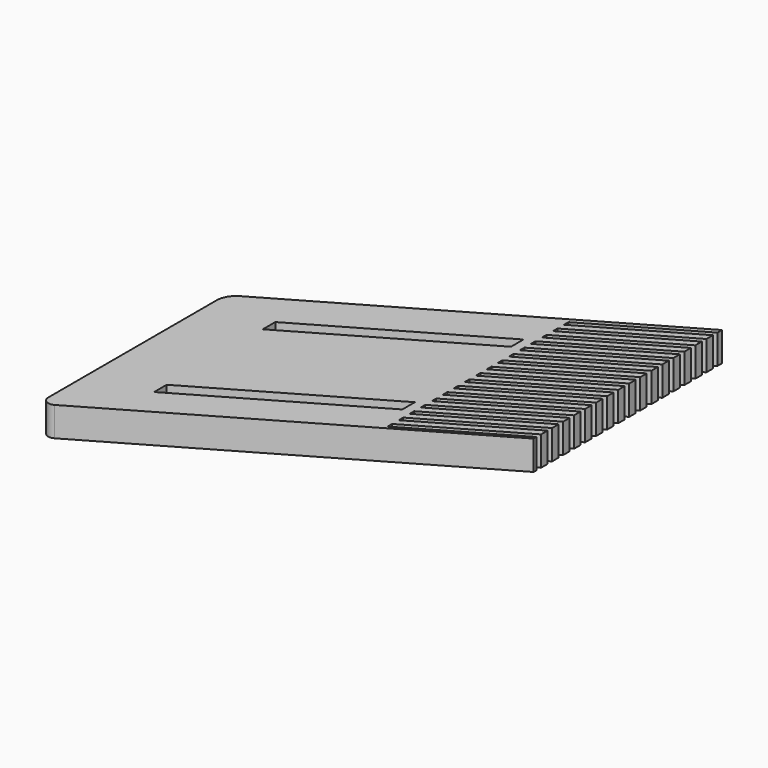
from build123d import *

# Parameters (mm, degrees)
F2_DEPTH = 19.05
F3_DEPTH = 25.4
F5_DEPTH = 25.4
F6_R     = 12.7
F7_R     = 5.08


with BuildPart() as f2:
    # F0 (on Top) → F2 (new body)
    with BuildSketch(Plane.XY):
        Polygon((219.970453, 127), (0, 0), (0, -152.4), (219.970453, -25.4), align=None)
    extrude(amount=F2_DEPTH)

    # F1 (on face) → F3 (cut)
    with BuildSketch(Plane.XY):
        Polygon((148.085226, 56.167652), (38.1, -7.332348), (38.1, -17.492348), (148.085226, 46.007652), align=None)
        Polygon((38.1, -105.480529), (148.085226, -41.980529), (148.085226, -31.820529), (38.1, -95.320529), align=None)
    extrude(amount=F3_DEPTH, mode=Mode.SUBTRACT)

    # F4 (on face) → F5 (cut)
    with BuildSketch(Plane.XY.offset(19.05)):
        Polygon((219.970453, 119.667652), (219.970453, 123.333826), (153.979317, 85.233826), (153.979317, 81.567652), align=None)
        Polygon((219.970453, 114.407963), (153.979317, 76.307963), (153.979317, 72.641788), (219.970453, 110.741788), align=None)
        Polygon((219.970453, 105.4821), (153.979317, 67.3821), (153.979317, 63.715925), (219.970453, 101.815925), align=None)
        Polygon((219.970453, 96.556236), (153.979317, 58.456236), (153.979317, 54.790062), (219.970453, 92.890062), align=None)
        Polygon((219.970453, 87.630373), (153.979317, 49.530373), (153.979317, 45.864199), (219.970453, 83.964199), align=None)
        Polygon((219.970453, 78.70451), (153.979317, 40.60451), (153.979317, 36.938336), (219.970453, 75.038336), align=None)
        Polygon((219.970453, 69.778647), (153.979317, 31.678647), (153.979317, 28.012473), (219.970453, 66.112473), align=None)
        Polygon((219.970453, 60.852784), (153.979317, 22.752784), (153.979317, 19.08661), (219.970453, 57.18661), align=None)
        Polygon((219.970453, 51.926921), (153.979317, 13.826921), (153.979317, 10.160747), (219.970453, 48.260747), align=None)
        Polygon((219.970453, 43.001058), (153.979317, 4.901058), (153.979317, 1.234883), (219.970453, 39.334883), align=None)
        Polygon((219.970453, 34.075195), (153.979317, -4.024805), (153.979317, -7.69098), (219.970453, 30.40902), align=None)
        Polygon((219.970453, 25.149331), (153.979317, -12.950669), (153.979317, -16.616843), (219.970453, 21.483157), align=None)
        Polygon((219.970453, 16.223468), (153.979317, -21.876532), (153.979317, -25.542706), (219.970453, 12.557294), align=None)
        Polygon((219.970453, 7.297605), (153.979317, -30.802395), (153.979317, -34.468569), (219.970453, 3.631431), align=None)
        Polygon((219.970453, -1.628258), (153.979317, -39.728258), (153.979317, -43.394432), (219.970453, -5.294432), align=None)
        Polygon((219.970453, -10.554121), (153.979317, -48.654121), (153.979317, -52.320295), (219.970453, -14.220295), align=None)
        Polygon((219.970453, -19.479984), (153.979317, -57.579984), (153.979317, -61.246158), (219.970453, -23.146158), align=None)
        Polygon((219.970453, -28.405847), (153.979317, -66.505847), (153.979317, -70.172022), (219.970453, -32.072022), align=None)
        Polygon((219.970453, -37.33171), (153.979317, -75.43171), (153.979317, -79.097885), (219.970453, -40.997885), align=None)
    extrude(amount=-F5_DEPTH, mode=Mode.SUBTRACT)

    # F6
    f6_edges = [f2.edges().sort_by_distance(p)[0] for p in [
        (0, 0, 9.525),
    ]]
    fillet(f6_edges, radius=F6_R)

    # F7
    f7_edges = [f2.edges().sort_by_distance(p)[0] for p in [
        (0, -152.4, 9.525),
    ]]
    fillet(f7_edges, radius=F7_R)


solid = f2.part
